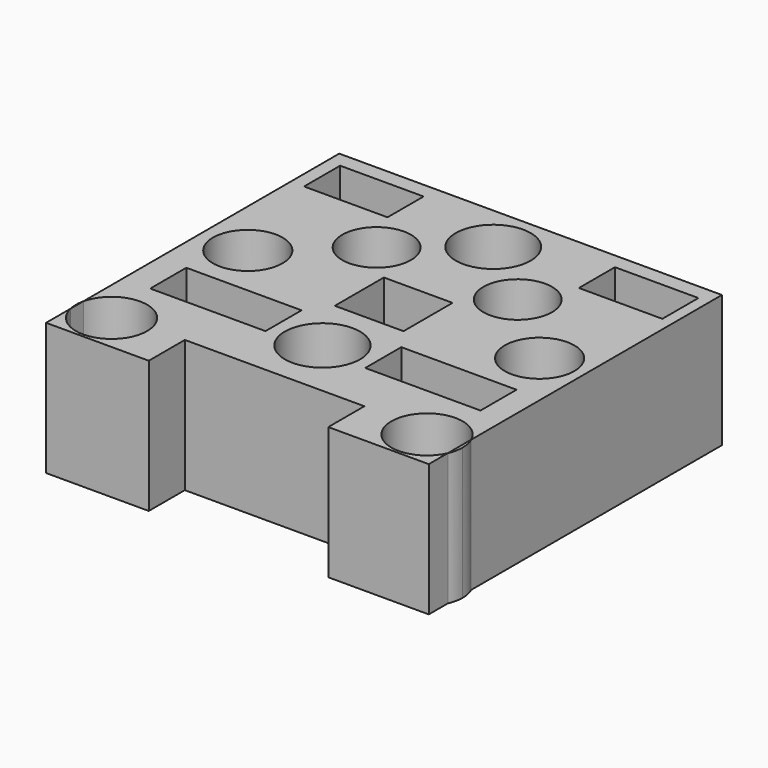
from build123d import *

# Parameters (mm, degrees)
F1_DEPTH = 50.8
F0_W     = 44.2608613521
F0_H     = 17.3071306199
F0_R     = 14.4511051607
F0_R_2   = 13.3719234315
F0_R_3   = 13.1893243286
F0_W_2   = 32.0607423782
F0_H_2   = 17.3071287572
F0_R_4   = 14.3869020543


with BuildPart() as f1:
    # F0 (on Top) → F1 (new body)
    with BuildSketch(Plane.XY):
        with BuildLine():
            Line((-73.909945786, -62.8318370183), (-73.909945786, -56.6157146494))
            ThreePointArc((-73.909945786, -56.6157146494), (-74.267362354, -59.7237758338), (-73.909945786, -62.8318370183))
        make_face()
    extrude(amount=F1_DEPTH)


with BuildPart() as f1b:
    # F0 (on Top) → F1, piece 2 (new body)
    with BuildSketch(Plane.XY):
        with BuildLine():
            ThreePointArc((74.267362354, -59.7237758338), (73.9618084643, -56.847288867), (73.058784008, -54.0991827407))
            Line((73.058784008, -54.0991827407), (73.058784008, -65.3483689269))
            ThreePointArc((73.058784008, -65.3483689269), (73.9618084643, -62.6002628007), (74.267362354, -59.7237758338))
        make_face()
    extrude(amount=F1_DEPTH)


with BuildPart() as f1c:
    # F0 (on Top) → F1, piece 3 (new body)
    with BuildSketch(Plane.XY):
        with BuildLine():
            Line((73.058784008, 66.2494152784), (-73.909945786, 66.2494152784))
            Line((-73.909945786, 66.2494152784), (-73.909945786, -56.6157146494))
            ThreePointArc((-73.909945786, -56.6157146494), (-59.0106765184, -46.1210098821), (-46.8825352214, -59.7237758338))
            ThreePointArc((-46.8825352214, -59.7237758338), (-59.0106765184, -73.3265417856), (-73.909945786, -62.8318370183))
            Line((-73.909945786, -62.8318370183), (-73.909945786, -74.4773894548))
            Line((-73.909945786, -74.4773894548), (-34.4723947346, -74.4773894548))
            Line((-34.4723947346, -74.4773894548), (-34.4723947346, -57.1702644229))
            Line((-34.4723947346, -57.1702644229), (0, -57.1702644229))
            Line((0, -57.1702644229), (34.4723947346, -57.1702644229))
            Line((34.4723947346, -57.1702644229), (34.4723947346, -74.4773894548))
            Line((34.4723947346, -74.4773894548), (73.058784008, -74.4773894548))
            Line((73.058784008, -74.4773894548), (73.058784008, -65.3483689269))
            ThreePointArc((73.058784008, -65.3483689269), (46.8825352214, -59.7237758338), (73.058784008, -54.0991827407))
            Line((73.058784008, -54.0991827407), (73.058784008, 66.2494152784))
        make_face()
        with Locations((-41.2817588076, -28.9397882298)):
            Rectangle(F0_W, F0_H, mode=Mode.SUBTRACT)
        with Locations((0, -34.1886691749)):
            Circle(F0_R, mode=Mode.SUBTRACT)
        with Locations((41.2817588076, -28.9397882298)):
            Rectangle(F0_W, F0_H, mode=Mode.SUBTRACT)
        with Locations((-56.0353733599, 0)):
            Circle(F0_R_2, mode=Mode.SUBTRACT)
        with Locations((-27.0955841988, 25.6769694388)):
            Circle(F0_R_3, mode=Mode.SUBTRACT)
        with Locations((-52.772551775, 51.6376625746)):
            Rectangle(F0_W_2, F0_H_2, mode=Mode.SUBTRACT)
        Polygon((-13.1931379437, 11.7745213211), (0, 11.7745213211), (13.1931379437, 11.7745213211), (13.1931379437, 0), (13.1931379437, -11.7745213211), (0, -11.7745213211), (-13.1931379437, -11.7745213211), (-13.1931379437, 0), align=None, mode=Mode.SUBTRACT)
        with Locations((27.0955841988, 25.6769694388)):
            Circle(F0_R_3, mode=Mode.SUBTRACT)
        with Locations((56.0353733599, 0)):
            Circle(F0_R_2, mode=Mode.SUBTRACT)
        with Locations((0, 47.8073954582)):
            Circle(F0_R_4, mode=Mode.SUBTRACT)
        with Locations((52.772551775, 51.6376625746)):
            Rectangle(F0_W_2, F0_H_2, mode=Mode.SUBTRACT)
    extrude(amount=F1_DEPTH)


solid = Compound([f1.part, f1b.part, f1c.part])
